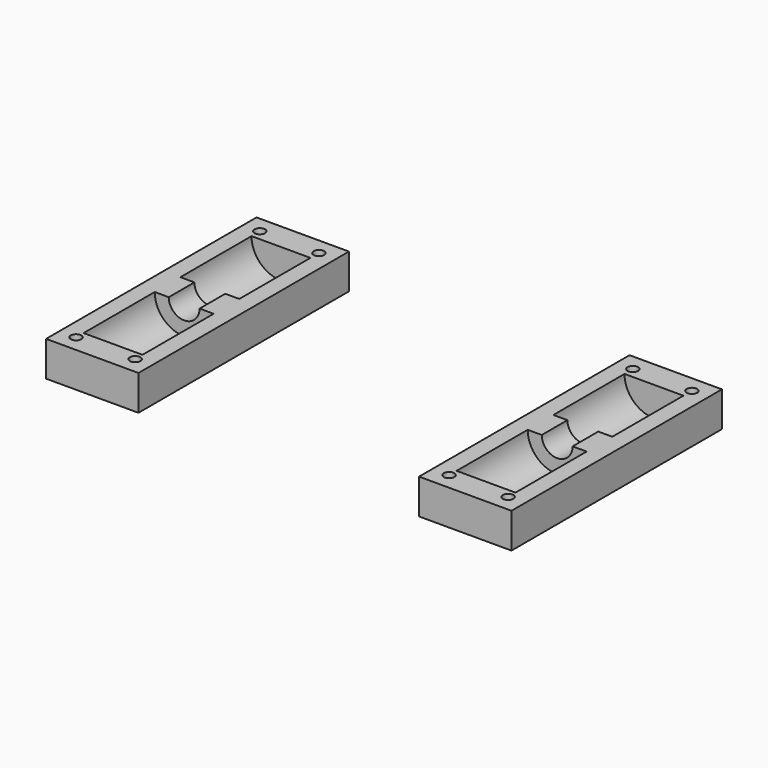
from build123d import *

# Parameters (mm, degrees)
CYLINDER013_R          = 1.5
CYLINDER013_DEPTH      = 10
CYLINDER012_R          = 1.5
CYLINDER012_DEPTH      = 10
CYLINDER011_R          = 1.5
CYLINDER011_DEPTH      = 10
CYLINDER010_R          = 1.5
CYLINDER010_DEPTH      = 10
CYLINDER009_R          = 8.4
CYLINDER009_DEPTH      = 25.35
CYLINDER009_ROLL_ANGLE = 90
CYLINDER008_R          = 4.4
CYLINDER008_DEPTH      = 9.5
CYLINDER008_ROLL_ANGLE = 90
CYLINDER007_R          = 8.4
CYLINDER007_DEPTH      = 25.35
CYLINDER007_ROLL_ANGLE = 90
BOX010_W               = 26.35
BOX010_H               = 75
BOX010_DEPTH           = 10
CUT017_PLACEMENT_ANGLE = 180
ARRAY001_X_COUNT       = 2
ARRAY001_X_PITCH       = 106.35


with BuildPart() as cilindro013:
    # Cylinder013 → Cylinder013 (new body)
    with BuildSketch(Plane(origin=(21.6, 70.25, 0), x_dir=(1, 0, 0), z_dir=(0, 0, 1))):
        Circle(CYLINDER013_R)
    extrude(amount=CYLINDER013_DEPTH)


with BuildPart() as cilindro012:
    # Cylinder012 → Cylinder012 (new body)
    with BuildSketch(Plane(origin=(4.75, 70.25, 0), x_dir=(1, 0, 0), z_dir=(0, 0, 1))):
        Circle(CYLINDER012_R)
    extrude(amount=CYLINDER012_DEPTH)


with BuildPart() as cilindro011:
    # Cylinder011 → Cylinder011 (new body)
    with BuildSketch(Plane(origin=(4.75, 4.75, 0), x_dir=(1, 0, 0), z_dir=(0, 0, 1))):
        Circle(CYLINDER011_R)
    extrude(amount=CYLINDER011_DEPTH)


with BuildPart() as cilindro010:
    # Cylinder010 → Cylinder010 (new body)
    with BuildSketch(Plane(origin=(21.6, 4.75, 0), x_dir=(1, 0, 0), z_dir=(0, 0, 1))):
        Circle(CYLINDER010_R)
    extrude(amount=CYLINDER010_DEPTH)


with BuildPart() as cilindro009:
    # Cylinder009 → Cylinder009 (new body)
    with BuildSketch(Plane.XY):
        Circle(CYLINDER009_R)
    extrude(amount=CYLINDER009_DEPTH)


with BuildPart() as cilindro009_1:
    # Cylinder009 roll: moved
    add(cilindro009.part.rotate(Axis((0, 0, 0), (1, 0, 0)), CYLINDER009_ROLL_ANGLE))


with BuildPart() as cilindro009_2:
    # Cylinder009 placement: moved
    add(cilindro009_1.part.moved(Location((13.175, 32.75, 0))))


with BuildPart() as cilindro008:
    # Cylinder008 → Cylinder008 (new body)
    with BuildSketch(Plane.XY):
        Circle(CYLINDER008_R)
    extrude(amount=CYLINDER008_DEPTH)


with BuildPart() as cilindro008_1:
    # Cylinder008 roll: moved
    add(cilindro008.part.rotate(Axis((0, 0, 0), (1, 0, 0)), CYLINDER008_ROLL_ANGLE))


with BuildPart() as cilindro008_2:
    # Cylinder008 placement: moved
    add(cilindro008_1.part.moved(Location((13.175, 42.25, 0))))


with BuildPart() as cilindro007:
    # Cylinder007 → Cylinder007 (new body)
    with BuildSketch(Plane.XY):
        Circle(CYLINDER007_R)
    extrude(amount=CYLINDER007_DEPTH)


with BuildPart() as cilindro007_1:
    # Cylinder007 roll: moved
    add(cilindro007.part.rotate(Axis((0, 0, 0), (1, 0, 0)), CYLINDER007_ROLL_ANGLE))


with BuildPart() as cilindro007_2:
    # Cylinder007 placement: moved
    add(cilindro007_1.part.moved(Location((13.175, 67.25, 0))))


with BuildPart() as obj1:
    # Box010 → Box010 (new body)
    with BuildSketch(Plane.XY):
        with Locations((13.175, 37.5)):
            Rectangle(BOX010_W, BOX010_H)
    extrude(amount=BOX010_DEPTH)

    # Cut011: cut Cilindro007
    add(cilindro007_2.part, mode=Mode.SUBTRACT)

    # Cut012: cut Cilindro008
    add(cilindro008_2.part, mode=Mode.SUBTRACT)

    # Cut013: cut Cilindro009
    add(cilindro009_2.part, mode=Mode.SUBTRACT)

    # Cut014: cut Cilindro010
    add(cilindro010.part, mode=Mode.SUBTRACT)

    # Cut015: cut Cilindro011
    add(cilindro011.part, mode=Mode.SUBTRACT)

    # Cut016: cut Cilindro012
    add(cilindro012.part, mode=Mode.SUBTRACT)

    # Cut017: cut Cilindro013
    add(cilindro013.part, mode=Mode.SUBTRACT)


with BuildPart() as obj1_1:
    # Cut017 placement: moved
    add(obj1.part.rotate(Axis((0, 0, 0), (0, 1, 0)), CUT017_PLACEMENT_ANGLE))

    # Array001 X: obj1_2


with BuildPart() as obj1_2:
    add(obj1_1.part)
    with Locations(*[(i * ARRAY001_X_PITCH, 0, 0) for i in range(1, ARRAY001_X_COUNT)]):
        add(obj1_1.part)


with BuildPart() as obj1_3:
    # Array001 placement: moved
    add(obj1_2.part.moved(Location((26.35, 200, 0))))


solid = obj1_3.part
